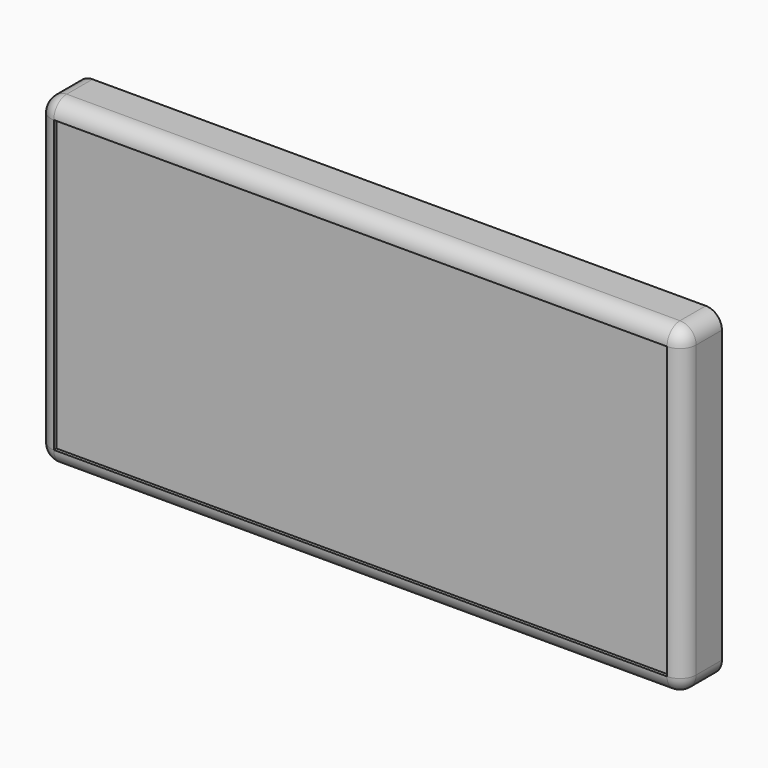
from build123d import *

# Parameters (mm, degrees)
F0_W      = 508
F0_H      = 254
F1_DEPTH  = 38.1
F2_R      = 12.7
F1_FACE_W = 482.6
F1_FACE_H = 228.6
F3_DEPTH  = 2.54


with BuildPart() as f1:
    # F0 (on Front) → F1 (new body)
    with BuildSketch(Plane.XZ):
        Rectangle(F0_W, F0_H)
    extrude(amount=F1_DEPTH)

    # F2
    f2_edges = [f1.edges().sort_by_distance(p)[0] for p in [
        (254, -38.1, 0),
        (0, -38.1, 127),
        (-254, -38.1, 0),
        (0, -38.1, -127),
        (-254, -19.05, 127),
        (254, -19.05, 127),
        (254, -19.05, -127),
        (-254, -19.05, -127),
    ]]
    fillet(f2_edges, radius=F2_R)

    # F1_face (on face) → F3 (cut)
    with BuildSketch(Plane.XZ.offset(38.1)):
        Rectangle(F1_FACE_W, F1_FACE_H)
    extrude(amount=-F3_DEPTH, mode=Mode.SUBTRACT)


solid = f1.part
